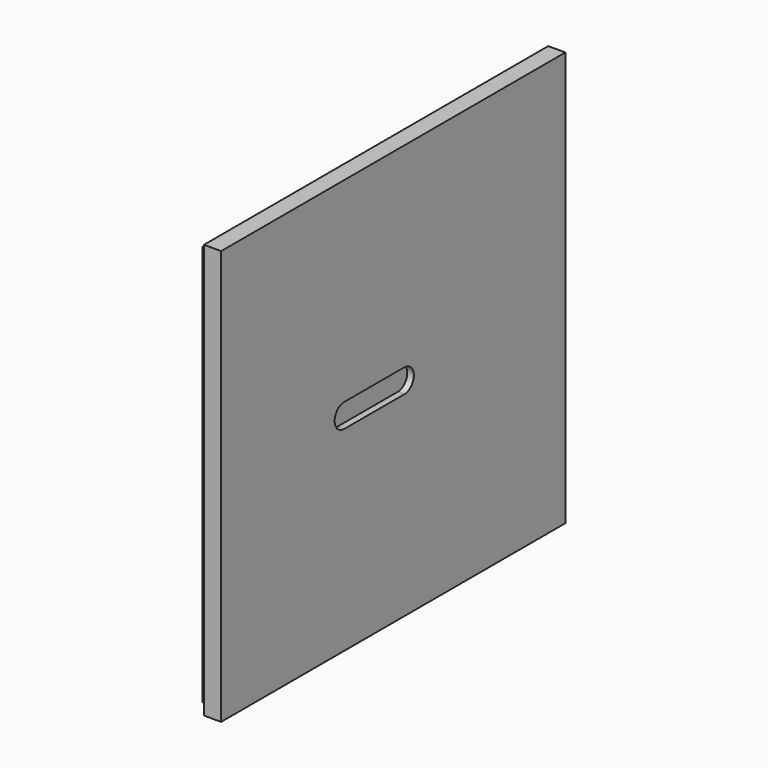
from build123d import *

# Parameters (mm, degrees)
F0_W     = 326
F0_H     = 314
F1_DEPTH = 18
F3_DEPTH = 5
F4_W     = 326
F4_H     = 314
F4_W_2   = 316
F4_H_2   = 304
F5_DEPTH = 5


with BuildPart() as f1:
    # F0 (on Right) → F1 (new body)
    with BuildSketch(Plane.YZ):
        Rectangle(F0_W, F0_H)
    extrude(amount=-F1_DEPTH)

    # F2 (on face) → F3 (cut)
    with BuildSketch(Plane.YZ):
        with BuildLine():
            ThreePointArc((10.5, -9), (19.5, 0), (10.5, 9))
            Line((10.5, 9), (-46.5, 9))
            ThreePointArc((-46.5, 9), (-55.5, 0), (-46.5, -9))
            Line((-46.5, -9), (10.5, -9))
        make_face()
    extrude(amount=-F3_DEPTH, mode=Mode.SUBTRACT)

    # F4 (on face) → F5 (cut)
    with BuildSketch(Plane(origin=(-18, 0, 0), x_dir=(0, -1, 0), z_dir=(-1, 0, 0))):
        Rectangle(F4_W, F4_H)
        Rectangle(F4_W_2, F4_H_2, mode=Mode.SUBTRACT)
    extrude(amount=-F5_DEPTH, mode=Mode.SUBTRACT)


solid = f1.part
